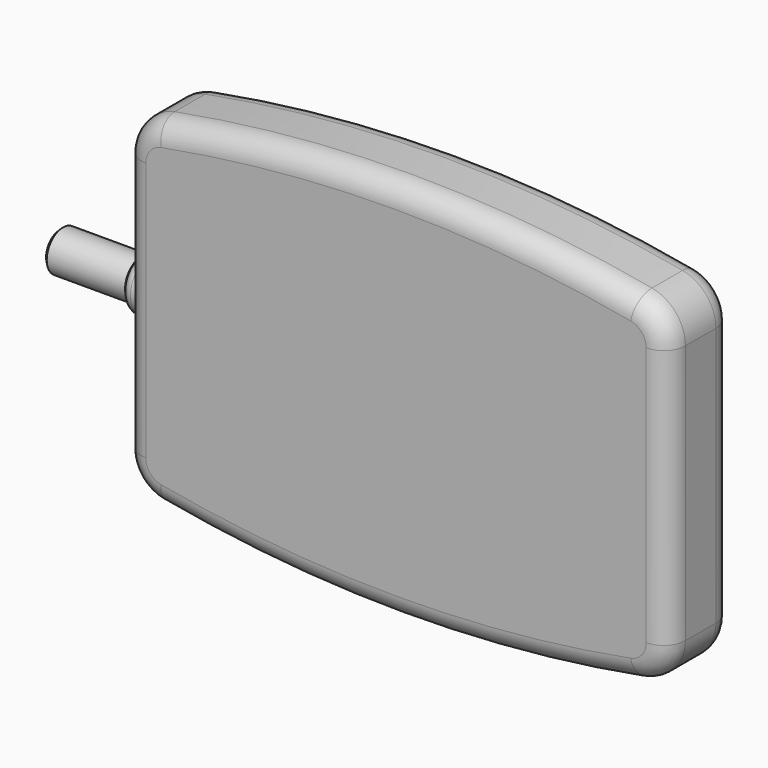
from build123d import *

# Parameters (mm, degrees)
F1_DEPTH      = 19.05
F2_R          = 9.525
F3_R          = 5.08
F5_DEPTH      = 3.175
F5_DEPTH_BACK = 5.08
F6_R          = 2.54
F7_R          = 4.7625
F8_DEPTH      = 19.05
F9_SIZE       = 0.762


with BuildPart() as f1:
    # F0 (on Front) → F1 (new body)
    with BuildSketch(Plane.XZ):
        with BuildLine():
            Line((71.9126091726, 0), (71.9126091726, 38.1))
            ThreePointArc((71.9126091726, 38.1), (8.4126091726, 44.7879573046), (-55.0873908274, 38.1))
            Line((-55.0873908274, 38.1), (-55.0873908274, 0))
            Line((-55.0873908274, 0), (-55.0873908274, -38.1))
            ThreePointArc((-55.0873908274, -38.1), (8.4126091726, -44.7879573046), (71.9126091726, -38.1))
            Line((71.9126091726, -38.1), (71.9126091726, 0))
        make_face()
    extrude(amount=F1_DEPTH)

    # F2
    f2_edges = [f1.edges().sort_by_distance(p)[0] for p in [
        (-55.087391, -9.525, 38.1),
        (-55.087391, -9.525, -38.1),
        (71.912609, -9.525, 38.1),
        (71.912609, -9.525, -38.1),
    ]]
    fillet(f2_edges, radius=F2_R)

    # F3
    f3_edges = [f1.edges().sort_by_distance(p)[0] for p in [
        (8.412609, -19.05, 44.787957),
        (8.412609, 0, 44.787957),
    ]]
    fillet(f3_edges, radius=F3_R)

    # F4 (on face) → F5 (join, two sides)
    with BuildSketch(Plane(origin=(-55.0873908274, 0, 0), x_dir=(0, -1, 0), z_dir=(-1, 0, 0))) as f5_sk:
        with BuildLine():
            ThreePointArc((13.97, -4.9615211664), (15.7291776693, -2.7529165008), (16.3569446489, 0))
            ThreePointArc((16.3569446489, 0), (15.7291776693, 2.7529165008), (13.97, 4.9615211664))
            Line((13.97, 4.9615211664), (13.97, -4.9615211664))
        make_face()
        with BuildLine():
            Line((5.08, -4.0059601129), (5.08, 4.0059601129))
            ThreePointArc((5.08, 4.0059601129), (3.6569446489, 0), (5.08, -4.0059601129))
        make_face()
        with BuildLine():
            Line((13.97, -4.9615211664), (13.97, 4.9615211664))
            ThreePointArc((13.97, 4.9615211664), (9.3283100813, 6.3136324825), (5.08, 4.0059601129))
            Line((5.08, 4.0059601129), (5.08, -4.0059601129))
            ThreePointArc((5.08, -4.0059601129), (9.3283100813, -6.3136324825), (13.97, -4.9615211664))
        make_face()
    extrude(amount=F5_DEPTH)
    extrude(f5_sk.sketch, amount=-F5_DEPTH_BACK)

    # F6
    f6_edges = [f1.edges().sort_by_distance(p)[0] for p in [
        (-58.262391, -6.043889, -4.961521),
    ]]
    fillet(f6_edges, radius=F6_R)

    # F7 (on face) → F8 (join)
    with BuildSketch(Plane(origin=(-58.2623908274, 0, 0), x_dir=(0, -1, 0), z_dir=(-1, 0, 0))):
        with Locations((10.0069446489, 0)):
            Circle(F7_R)
    extrude(amount=F8_DEPTH)

    # F9
    f9_edges = [f1.edges().sort_by_distance(p)[0] for p in [
        (-77.312391, -5.244445, 0),
    ]]
    chamfer(f9_edges, length=F9_SIZE)


solid = f1.part
